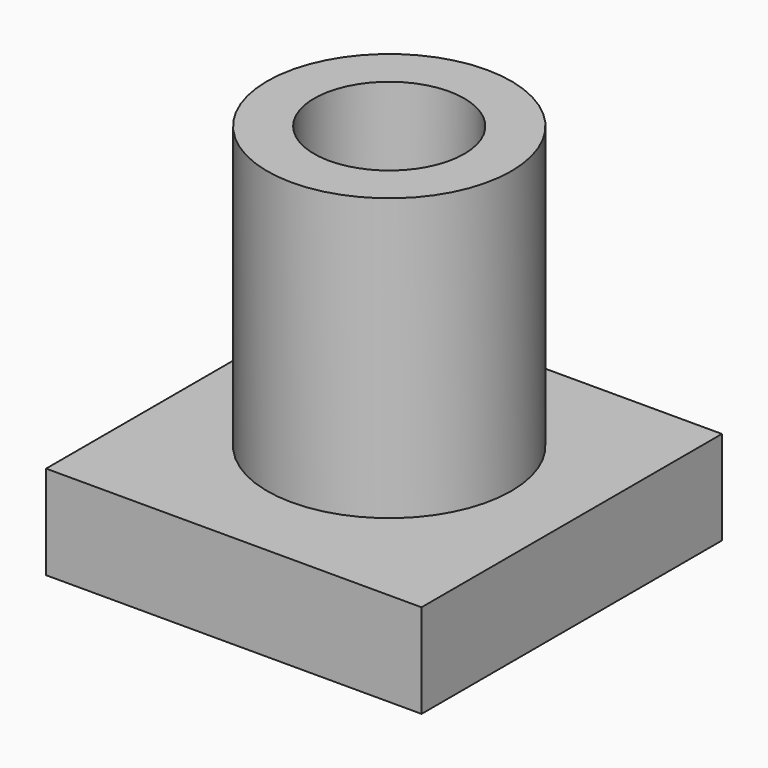
from build123d import *

# Parameters (mm, degrees)
F0_W     = 25.4
F0_H     = 25.4
F1_DEPTH = 6.35
F2_R     = 8.255
F2_R_2   = 5.08
F3_DEPTH = 25.4


with BuildPart() as f1:
    # F0 (on Top) → F1 (new body)
    with BuildSketch(Plane.XY):
        with Locations((-25.977274, 37.378409)):
            Rectangle(F0_W, F0_H)
    extrude(amount=F1_DEPTH)

    # F2 (on Top) → F3 (join)
    with BuildSketch(Plane.XY):
        with Locations((-26.134709, 38.018856)):
            Circle(F2_R)
        with Locations((-26.134709, 38.018856)):
            Circle(F2_R_2, mode=Mode.SUBTRACT)
    extrude(amount=F3_DEPTH)


solid = f1.part
